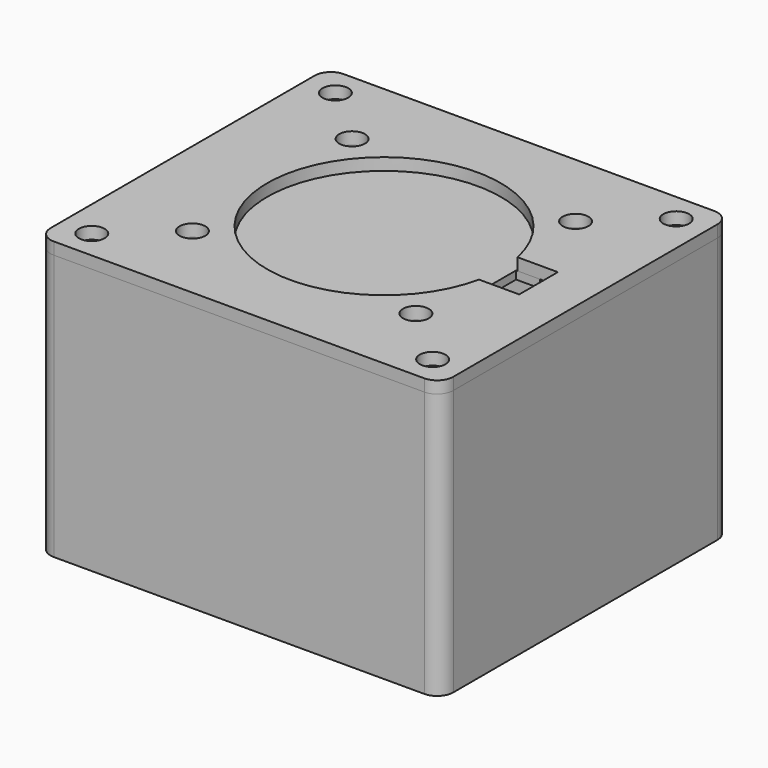
from build123d import *

# Parameters (mm, degrees)
SKETCH_W        = 50
SKETCH_H        = 45
PAD_DEPTH       = 1
SKETCH001_W     = 50
SKETCH001_H     = 45
SKETCH001_W_2   = 46.8
SKETCH001_H_2   = 41.8
PAD001_DEPTH    = 32
SKETCH002_R     = 1.6
POCKET_DEPTH    = 5
SKETCH003_R     = 4
POCKET001_DEPTH = 5
FILLET001_R     = 2
SKETCH004_W     = 50
SKETCH004_H     = 45
SKETCH004_R     = 1.6
PAD002_DEPTH    = 1.5
FILLET_R        = 2
SKETCH005_R     = 1.6
PAD003_DEPTH    = 1
FILLET002_R     = 2


with BuildPart() as body:
    # Sketch → Pad (new body)
    with BuildSketch(Plane.XY):
        Rectangle(SKETCH_W, SKETCH_H)
    extrude(amount=PAD_DEPTH)

    # Sketch001 (on Face6 of Pad) → Pad001 (join)
    with BuildSketch(Plane.XY.offset(1)):
        Rectangle(SKETCH001_W, SKETCH001_H)
        Rectangle(SKETCH001_W_2, SKETCH001_H_2, mode=Mode.SUBTRACT)
    extrude(amount=PAD001_DEPTH)

    # Sketch002 (on Face15 of Pad001) → Pocket (cut)
    with BuildSketch(Plane.XY.offset(1)):
        with Locations((-21.162526, 18.901573)):
            Circle(SKETCH002_R)
        with Locations((21.162526, 18.901573)):
            Circle(SKETCH002_R)
        with Locations((21.162526, -18.901573)):
            Circle(SKETCH002_R)
        with Locations((-21.162526, -18.901573)):
            Circle(SKETCH002_R)
    extrude(amount=-POCKET_DEPTH, mode=Mode.SUBTRACT)

    # Sketch003 → Pocket001 (cut)
    with BuildSketch(Plane(origin=(-25, 0, 0), x_dir=(0, -1, 0), z_dir=(-1, 0, 0))):
        with Locations((-10.5, 12.5)):
            Circle(SKETCH003_R)
        with BuildLine():
            ThreePointArc((2.5, 10.438447), (6.5, 8), (10.5, 10.438447))
            Line((10.5, 14.561553), (10.5, 10.438447))
            ThreePointArc((10.5, 14.561553), (6.5, 17), (2.5, 14.561553))
            Line((2.5, 14.561553), (2.5, 10.438447))
        make_face()
    extrude(amount=-POCKET001_DEPTH, mode=Mode.SUBTRACT)

    # Fillet001
    fillet001_edges = [body.edges().sort_by_distance(p)[0] for p in [
        (-23.4, 20.9, 17),
        (25, -22.5, 17),
        (25, 22.5, 17),
        (-25, -22.5, 17),
        (23.4, -20.9, 17),
        (-25, 22.5, 17),
        (23.4, 20.9, 17),
        (-23.4, -20.9, 17),
    ]]
    fillet(fillet001_edges, radius=FILLET001_R)


with BuildPart() as lid:
    # Sketch004 (on Face1 of ReferencePocket001001) → Pad002 (new body)
    with BuildSketch(Plane.XY.offset(33)):
        Rectangle(SKETCH004_W, SKETCH004_H)
        with Locations((-21.162526, 18.901573)):
            Circle(SKETCH004_R, mode=Mode.SUBTRACT)
        with Locations((21.162526, 18.901573)):
            Circle(SKETCH004_R, mode=Mode.SUBTRACT)
        with Locations((21.162526, -18.901573)):
            Circle(SKETCH004_R, mode=Mode.SUBTRACT)
        with Locations((-21.162526, -18.901573)):
            Circle(SKETCH004_R, mode=Mode.SUBTRACT)
        with Locations((13.872337, 12.390249)):
            Circle(SKETCH004_R, mode=Mode.SUBTRACT)
        with Locations((-13.872337, 12.390249)):
            Circle(SKETCH004_R, mode=Mode.SUBTRACT)
        with Locations((-13.872337, -12.390249)):
            Circle(SKETCH004_R, mode=Mode.SUBTRACT)
        with Locations((13.872337, -12.390249)):
            Circle(SKETCH004_R, mode=Mode.SUBTRACT)
        with BuildLine():
            ThreePointArc((14.186261, 3), (-14.5, 0), (14.186261, -3))
            Line((14.186261, -3), (19.186261, -3))
            Line((19.186261, 3), (19.186261, -3))
            Line((14.186261, 3), (19.186261, 3))
        make_face(mode=Mode.SUBTRACT)
    extrude(amount=PAD002_DEPTH)

    # Fillet
    fillet_edges = [lid.edges().sort_by_distance(p)[0] for p in [
        (25, -22.5, 33.75),
        (-25, -22.5, 33.75),
        (25, 22.5, 33.75),
        (-25, 22.5, 33.75),
    ]]
    fillet(fillet_edges, radius=FILLET_R)


with BuildPart() as socketholder:
    # Sketch005 (on Face1 of ReferenceFillet) → Pad003 (new body)
    with BuildSketch(Plane(origin=(0, 0, 33), x_dir=(1, 0, 0), z_dir=(0, 0, -1))):
        Polygon((-17, 16), (17, 16), (17, 3), (14, 3), (14, -3), (17, -3), (17, -16), (-17, -16), align=None)
        with Locations((-13.872343, 12.390242)):
            Circle(SKETCH005_R, mode=Mode.SUBTRACT)
        with Locations((13.872343, 12.390242)):
            Circle(SKETCH005_R, mode=Mode.SUBTRACT)
        with Locations((13.872343, -12.390242)):
            Circle(SKETCH005_R, mode=Mode.SUBTRACT)
        with Locations((-13.872343, -12.390242)):
            Circle(SKETCH005_R, mode=Mode.SUBTRACT)
    extrude(amount=PAD003_DEPTH)

    # Fillet002
    fillet002_edges = [socketholder.edges().sort_by_distance(p)[0] for p in [
        (-17, -16, 32.5),
        (-17, 16, 32.5),
        (17, 16, 32.5),
        (17, -16, 32.5),
    ]]
    fillet(fillet002_edges, radius=FILLET002_R)


solid = Compound([body.part, lid.part, socketholder.part])
